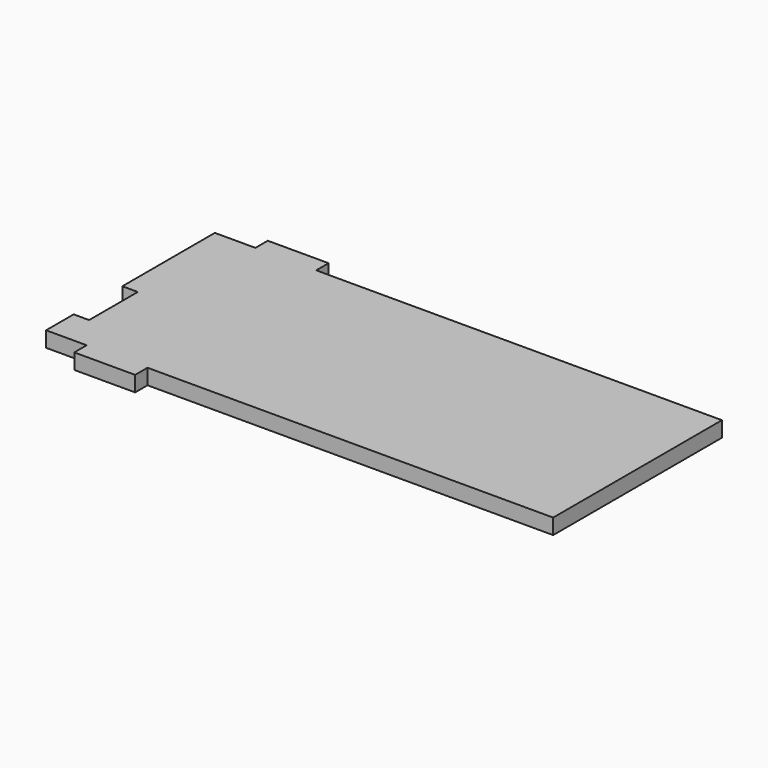
from build123d import *

# Parameters (mm, degrees)
F0_W     = 15
F0_H     = 3.81
F1_DEPTH = 3.81


with BuildPart() as f1:
    # F0 (on Top) → F1 (new body)
    with BuildSketch(Plane.XY):
        Polygon((62.5, -26), (62.5, 26), (-37.5, 26), (-52.5, 26), (-62.5, 26), (-62.5, -2.5), (-58.69, -2.5), (-58.69, -17.5), (-62.5, -17.5), (-62.5, -26), (-52.5, -26), (-37.5, -26), align=None)
        with Locations((-45, 27.905)):
            Rectangle(F0_W, F0_H)
        with Locations((-45, -27.905)):
            Rectangle(F0_W, F0_H)
    extrude(amount=F1_DEPTH)


solid = f1.part
